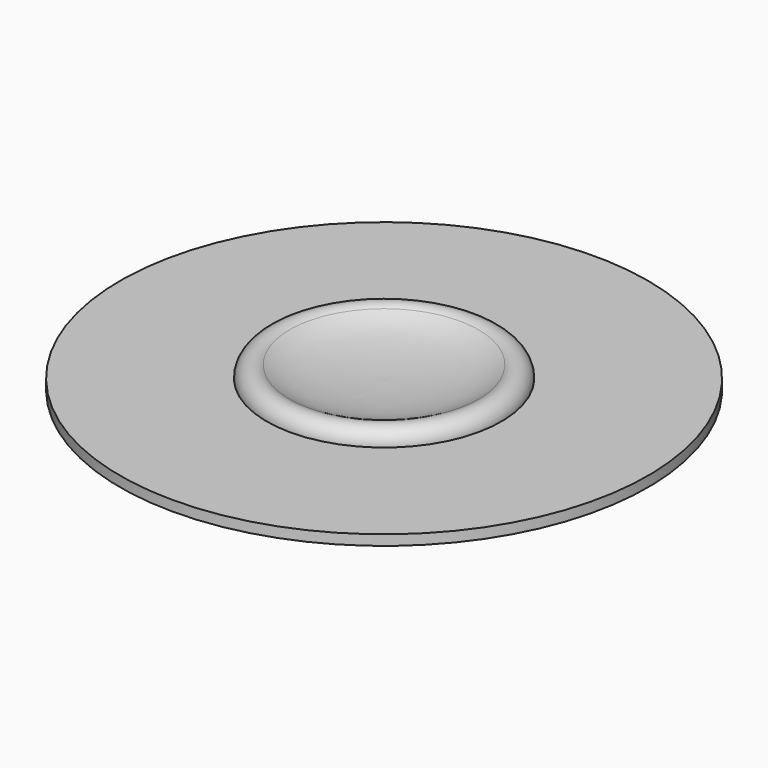
from build123d import *


with BuildPart() as f1:
    # F0 (on Right) → F1 (revolve)
    with BuildSketch(Plane.YZ):
        with BuildLine():
            Line((-180, 7), (-180, 0))
            Line((-180, 0), (0, 0))
            Line((0, 0), (0, 4.7095003538))
            add(Edge.make_bspline(
                [(-64.3348234826, 15.2404960425), (-61.8119187453, 13.8944209727), (-55.5593476946, 10.5584131207), (-36.0366798908, 6.0526645381), (-11.0971623358, 4.4546559259), (-3.1304217133, 4.6376107566), (0, 4.7095003538)],
                knots=[0, 0, 0, 0, 0.1923725593, 0.476761202, 0.7944004741, 1, 1, 1, 1], degree=3))
            ThreePointArc((-64.3348234826, 15.2404960425), (-74.655546951, 15.8501911046), (-80, 7))
            Line((-80, 7), (-180, 7))
        make_face()
    revolve(axis=Axis((0, 0, 1.3595614582), (0, 0, -1)))


solid = f1.part
